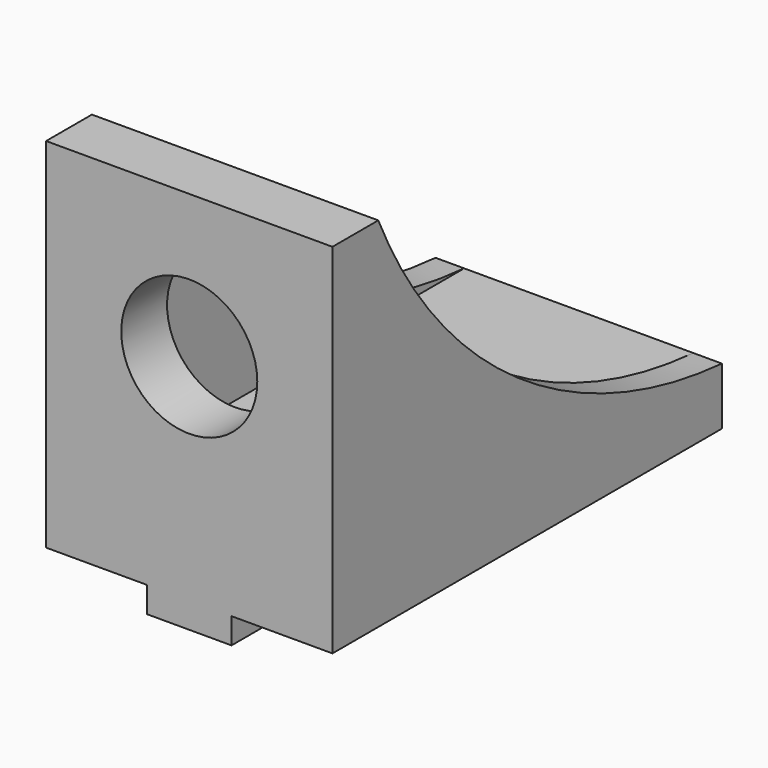
from build123d import *

# Parameters (mm, degrees)
SKETCH090_W     = 20
SKETCH090_H     = 30
SKETCH090_R     = 1.7
PAD021_DEPTH    = 4
SKETCH091_W     = 20
SKETCH091_H     = 25
SKETCH091_R     = 4.75
PAD022_DEPTH    = 4
PAD023_DEPTH    = 2
PAD024_DEPTH    = 2
SKETCH094_W     = 5.9
SKETCH094_H     = 6
PAD025_DEPTH    = 1.8
CHAMFER051_SIZE = 1.75


with BuildPart() as part:
    # Sketch090 → Pad021 (new body)
    with BuildSketch(Plane.XY):
        Rectangle(SKETCH090_W, SKETCH090_H)
        Circle(SKETCH090_R, mode=Mode.SUBTRACT)
    extrude(amount=PAD021_DEPTH)

    # Sketch091 → Pad022 (join)
    with BuildSketch(Plane.XZ.offset(15)):
        with Locations((0, 12.5)):
            Rectangle(SKETCH091_W, SKETCH091_H)
        with Locations((0, 15)):
            Circle(SKETCH091_R, mode=Mode.SUBTRACT)
    extrude(amount=PAD022_DEPTH)

    # Sketch092 → Pad023 (join)
    with BuildSketch(Plane.YZ.offset(8)):
        with BuildLine():
            Line((-15, 25), (-15, 4))
            Line((-15, 4), (15, 4))
            ThreePointArc((-15, 25), (-2.8696242204, 10.400536828), (15, 4))
        make_face()
    extrude(amount=PAD023_DEPTH)

    # Sketch093 → Pad024 (join)
    with BuildSketch(Plane.YZ.offset(-8)):
        with BuildLine():
            Line((-15, 25), (-15, 4))
            Line((-15, 4), (15, 4))
            ThreePointArc((-15, 25), (-2.8696242204, 10.400536828), (15, 4))
        make_face()
    extrude(amount=-PAD024_DEPTH)

    # Sketch094 (on Face4 of Pad024) → Pad025 (join)
    with BuildSketch(Plane(origin=(0, 0, 0), x_dir=(1, 0, 0), z_dir=(0, 0, -1))):
        with Locations((0, 16)):
            Rectangle(SKETCH094_W, SKETCH094_H)
        with Locations((0, -12)):
            Rectangle(SKETCH094_W, SKETCH094_H)
    extrude(amount=PAD025_DEPTH)

    # Chamfer051
    chamfer051_edges = [part.edges().sort_by_distance(p)[0] for p in [
        (0, 9, -1.8),
    ]]
    chamfer(chamfer051_edges, length=CHAMFER051_SIZE)


solid = part.part
